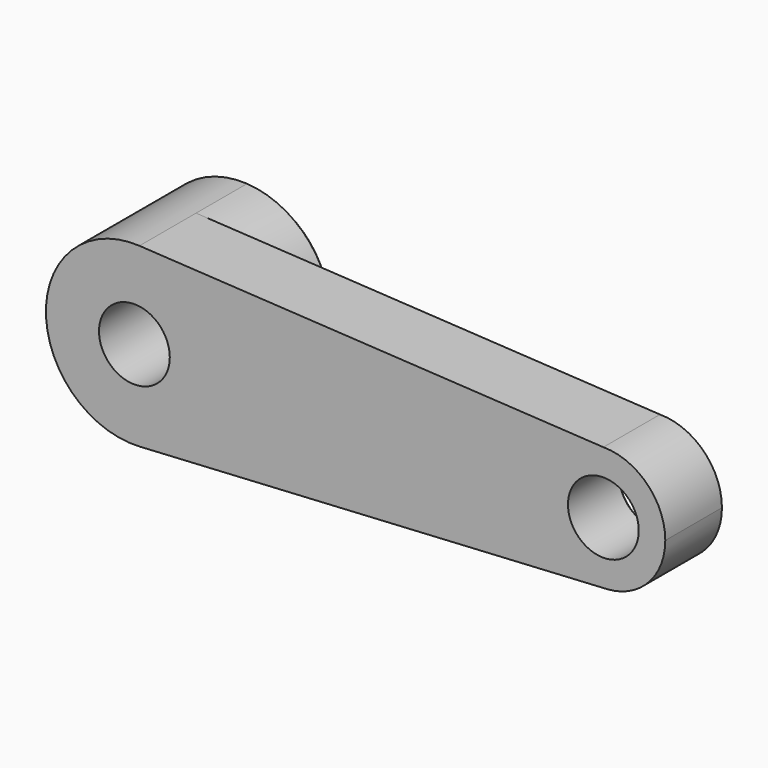
from build123d import *

# Parameters (mm, degrees)
F0_R     = 10
F1_DEPTH = 20
F2_DEPTH = 20
F3_SIZE  = 2


with BuildPart() as f1:
    # F0 (on Front) → F1 (new body)
    with BuildSketch(Plane.XZ):
        with BuildLine():
            ThreePointArc((1.415094, -24.959918), (18.171095, -17.17007), (25, 0))
            ThreePointArc((25, 0), (18.172929, 17.168129), (1.420428, 24.959615))
            ThreePointArc((1.420428, 24.959615), (-25, 0.002671), (1.415094, -24.959918))
        make_face()
        Circle(F0_R, mode=Mode.SUBTRACT)
        with BuildLine():
            ThreePointArc((1.420428, 24.959615), (18.172929, 17.168129), (25, 0))
            ThreePointArc((25, 0), (18.171095, -17.17007), (1.415094, -24.959918))
            Line((1.415094, -24.959918), (133.490566, -17.471943))
            ThreePointArc((133.490566, -17.471943), (115.007016, -0.495482), (132.5, 17.5))
            Line((132.5, 17.5), (1.420428, 24.959615))
        make_face()
        with BuildLine():
            ThreePointArc((150, 0), (144.874369, 12.374369), (132.5, 17.5))
            ThreePointArc((132.5, 17.5), (115.007016, -0.495482), (133.490566, -17.471943))
            ThreePointArc((133.490566, -17.471943), (145.219766, -12.019049), (150, 0))
        make_face()
        with Locations((132.5, 0)):
            Circle(F0_R, mode=Mode.SUBTRACT)
    extrude(amount=F1_DEPTH)

    # F0 (on Front) → F2 (join)
    with BuildSketch(Plane.XZ):
        with BuildLine():
            ThreePointArc((1.415094, -24.959918), (18.171095, -17.17007), (25, 0))
            ThreePointArc((25, 0), (18.172929, 17.168129), (1.420428, 24.959615))
            ThreePointArc((1.420428, 24.959615), (-25, 0.002671), (1.415094, -24.959918))
        make_face()
        Circle(F0_R, mode=Mode.SUBTRACT)
    extrude(amount=-F2_DEPTH)

    # F3
    f3_edges = [f1.edges().sort_by_distance(p)[0] for p in [
        (-10, 20, 0),
        (-1.415094, 20, 24.959918),
        (122.5, 0, 0),
    ]]
    chamfer(f3_edges, length=F3_SIZE)


solid = f1.part
